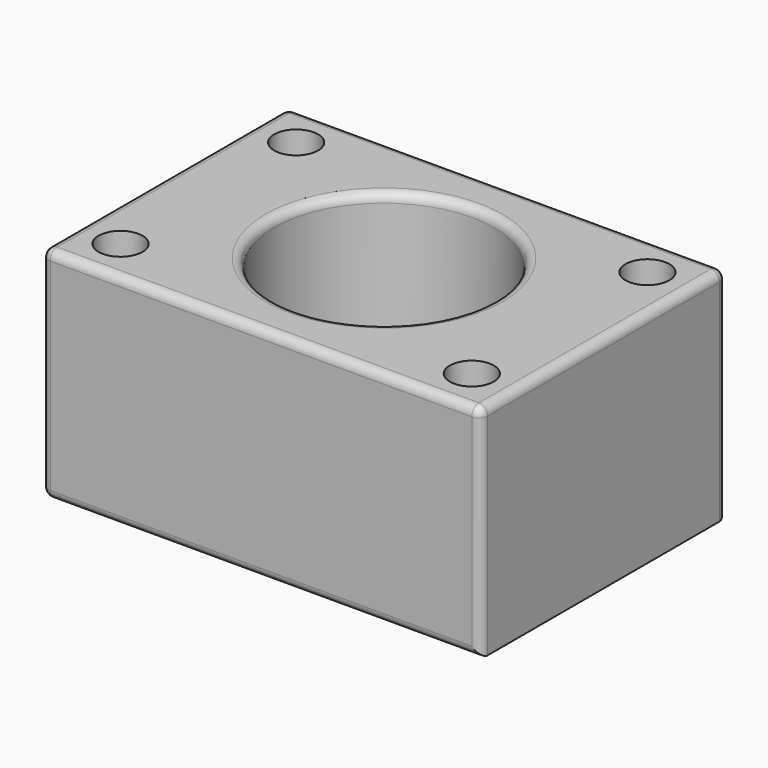
from build123d import *

# Parameters (mm, degrees)
F0_W     = 254
F0_H     = 177.8
F0_R     = 63.5
F1_DEPTH = 127
F2_R     = 5.08
F3_R     = 12.7
F4_DEPTH = 127


with BuildPart() as f1:
    # F0 (on Top) → F1 (new body)
    with BuildSketch(Plane.XY):
        Rectangle(F0_W, F0_H)
        Circle(F0_R, mode=Mode.SUBTRACT)
    extrude(amount=F1_DEPTH)

    # F2
    f2_edges = [f1.edges().sort_by_distance(p)[0] for p in [
        (0, -88.9, 127),
        (127, 0, 127),
        (0, 88.9, 127),
        (-127, 0, 127),
        (-63.5, 0, 127),
        (-127, 88.9, 63.5),
        (-127, -88.9, 63.5),
        (-127, 0, 0),
        (127, -88.9, 63.5),
        (0, -88.9, 0),
        (127, 88.9, 63.5),
        (0, 88.9, 0),
    ]]
    fillet(f2_edges, radius=F2_R)

    # F3 (on face) → F4 (cut, through all)
    with BuildSketch(Plane.XY.offset(127)):
        with Locations((-101.6, 63.5)):
            Circle(F3_R)
        with Locations((101.6, 63.5)):
            Circle(F3_R)
        with Locations((101.6, -63.5)):
            Circle(F3_R)
        with Locations((-101.6, -63.5)):
            Circle(F3_R)
    extrude(amount=-F4_DEPTH, mode=Mode.SUBTRACT)


solid = f1.part
